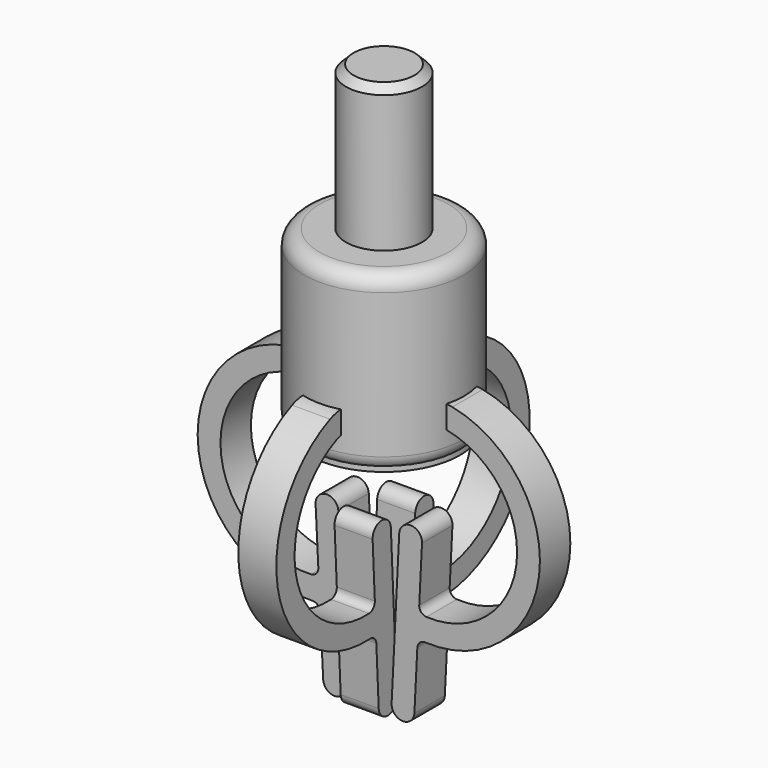
from build123d import *

# Parameters (mm, degrees)
PAD_DEPTH             = 4
POLARPATTERN_COUNT    = 36
SKETCH003_W           = 2
SKETCH003_H           = 3
PAD001_DEPTH          = 2.5
PAD002_DEPTH          = 2.5
PAD003_DEPTH          = 2
POLARPATTERN001_COUNT = 36


with BuildPart() as hand_drill:
    # Sketch → Revolution (revolve)
    with BuildSketch(Plane.XZ):
        with BuildLine():
            Line((5, 24), (4, 24))
            Line((4, 24), (4, 23))
            Line((4, 23), (8.5, 23))
            ThreePointArc((10.5, 21), (9.9142135624, 22.4142135624), (8.5, 23))
            Line((10.5, 21), (10.5, 2))
            ThreePointArc((8.5, 0), (9.9142135624, 0.5857864376), (10.5, 2))
            Line((8.5, 0), (7.5, 0))
            Line((7.5, 0), (7.5, 14))
            ThreePointArc((7.5, 14), (5.7426406871, 18.2426406871), (1.5, 20))
            Line((1.5, 20), (1.5, 32.3))
            Line((1.5, 32.3), (4, 32.3))
            Line((4, 32.3), (5, 31.3))
            Line((5, 31.3), (5, 24))
        make_face()
    revolve(axis=Axis((0, 0, 0), (0, 0, 1)))


with BuildPart() as leather_punch_arbor:
    # Sketch001 → Revolution001 (revolve)
    with BuildSketch(Plane.XZ):
        Polygon((0, 42), (4, 42), (5, 41), (5, 22), (4, 22), (4, 20), (8, 20), (8, 2), (10, 2), (10, 0), (0, 0), align=None)
    revolve(axis=Axis((0, 0, 0), (0, 0, 1)))

    # Sketch002 → Pad (new body)
    with BuildSketch(Plane.XY):
        with BuildLine():
            Line((7.9938322899, -0.3140785261), (9.9922903624, -0.3925981576))
            ThreePointArc((9.9922903624, -0.3925981576), (10, 0), (9.9922903624, 0.3925981576))
            Line((7.9938322899, 0.3140785261), (9.9922903624, 0.3925981576))
            ThreePointArc((7.9938322899, -0.3140785261), (8, 0), (7.9938322899, 0.3140785261))
        make_face()
    pad = extrude(amount=PAD_DEPTH)

    # PolarPattern: Pad ×36 about axis
    polarpattern_axis = Axis((0, 0, 0), (0, 0, 1))
    for i in range(1, POLARPATTERN_COUNT):
        add(pad.rotate(polarpattern_axis, i * 360 / POLARPATTERN_COUNT))


with BuildPart() as body003:
    # Sketch003 → Revolution002 (revolve)
    with BuildSketch(Plane.XZ):
        with Locations((9, 5.5)):
            Rectangle(SKETCH003_W, SKETCH003_H)
    revolve(axis=Axis((0, 0, 0), (0, 0, 1)))

    # Sketch004 → Pad001 (new body, symmetric)
    with BuildSketch(Plane.XZ):
        with BuildLine():
            ThreePointArc((7.430090411, -21.4981285115), (22.3859970286, -8.9506999754), (10.9909711164, 6.9008138351))
            ThreePointArc((10.9909711164, 6.9008138351), (10.4979612558, 6.9751416651), (10, 7))
            Line((8, 7), (10, 7))
            Line((8, 4), (8, 7))
            Line((10, 4), (8, 4))
            ThreePointArc((10.3963884466, 3.960325534), (10.1991845023, 3.990056666), (10, 4))
            ThreePointArc((7.5799031351, -18.5018714885), (19.4093056881, -8.5774592176), (10.3963884466, 3.960325534))
            ThreePointArc((6.6310885821, -17.4531815411), (6.8883050851, -18.1740324193), (7.5799031351, -18.5018714885))
            Line((6.6310885821, -17.4531815411), (6.9962570166, -10.1498128508))
            ThreePointArc((6.9962570166, -10.1498128508), (5.5730349337, -8.5767779171), (4, -10))
            Line((4, -10), (3, -30))
            ThreePointArc((3, -30), (4.4232220829, -31.5730349337), (5.9962570166, -30.1498128508))
            Line((6.3814004974, -22.4469432355), (5.9962570166, -30.1498128508))
            ThreePointArc((7.430090411, -21.4981285115), (6.7092394966, -21.7553450875), (6.3814004974, -22.4469432355))
        make_face()
    pad001 = extrude(amount=PAD001_DEPTH, both=True)

    # Mirrored: Pad001 across Sketch004 V_Axis
    add(pad001.mirror(Plane(origin=(0, 0, 0), x_dir=(0, -1, 0), z_dir=(1, 0, 0))))

    # Sketch005 → Pad002 (join, symmetric)
    with BuildSketch(Plane.YZ):
        with BuildLine():
            ThreePointArc((-2, -10), (-3.5730349337, -8.5767779171), (-4.9962570166, -10.1498128508))
            Line((-4.6310885861, -17.4531814621), (-4.9962570166, -10.1498128508))
            ThreePointArc((-5.5799056684, -18.5018715359), (-4.8883059386, -18.1740332793), (-4.6310885861, -17.4531814621))
            ThreePointArc((-10.794951729, 3.8352252583), (-17.5127064482, -9.510497435), (-5.5799056684, -18.5018715359))
            ThreePointArc((-10, 4), (-10.4059245518, 3.9583731152), (-10.794951729, 3.8352252583))
            Line((-8, 4), (-10, 4))
            Line((-8, 7), (-8, 4))
            Line((-8, 7), (-10, 7))
            ThreePointArc((-10, 7), (-11.0148113794, 6.895932788), (-11.9873793224, 6.5880631457))
            ThreePointArc((-11.9873793224, 6.5880631457), (-20.4341415839, -10.1925654287), (-5.4300910473, -21.4981284641))
            ThreePointArc((-4.3814005014, -22.4469431565), (-4.7092397353, -21.7553447961), (-5.4300910473, -21.4981284641))
            Line((-4.3814005014, -22.4469431565), (-3.9962570166, -30.1498128508))
            ThreePointArc((-3.9962570166, -30.1498128508), (-2.4232220829, -31.5730349337), (-1, -30))
            Line((-2, -10), (-1, -30))
        make_face()
    pad002 = extrude(amount=PAD002_DEPTH, both=True)

    # Mirrored001: Pad002 across XZ
    add(pad002.mirror(Plane.XZ))

    # Binder → Pad003 (join)
    with BuildSketch(Plane(origin=(9.0003346919, 0.7874272535, 2), x_dir=(0, 1, 0), z_dir=(0, 0, 1))):
        with BuildLine():
            ThreePointArc((0.2221644996, 1.0642950945), (-0.0901813115, 1.0307771072), (-0.4036022253, 1.0095476001))
            Line((-0.4036022253, 1.0095476001), (-0.3076459683, -0.9881491729))
            ThreePointArc((-0.3076459683, -0.9881491729), (0.084130174, -0.961612289), (0.4745624379, -0.9197148049))
            Line((0.4745624379, -0.9197148049), (0.2221644996, 1.0642950945))
        make_face()
    pad003 = extrude(amount=PAD003_DEPTH)

    # PolarPattern001: Pad003 ×36 about axis
    polarpattern001_axis = Axis((0, 0, 0), (0, 0, 1))
    for i in range(1, POLARPATTERN001_COUNT):
        add(pad003.rotate(polarpattern001_axis, i * 360 / POLARPATTERN001_COUNT))


solid = Compound([hand_drill.part, leather_punch_arbor.part, body003.part])
